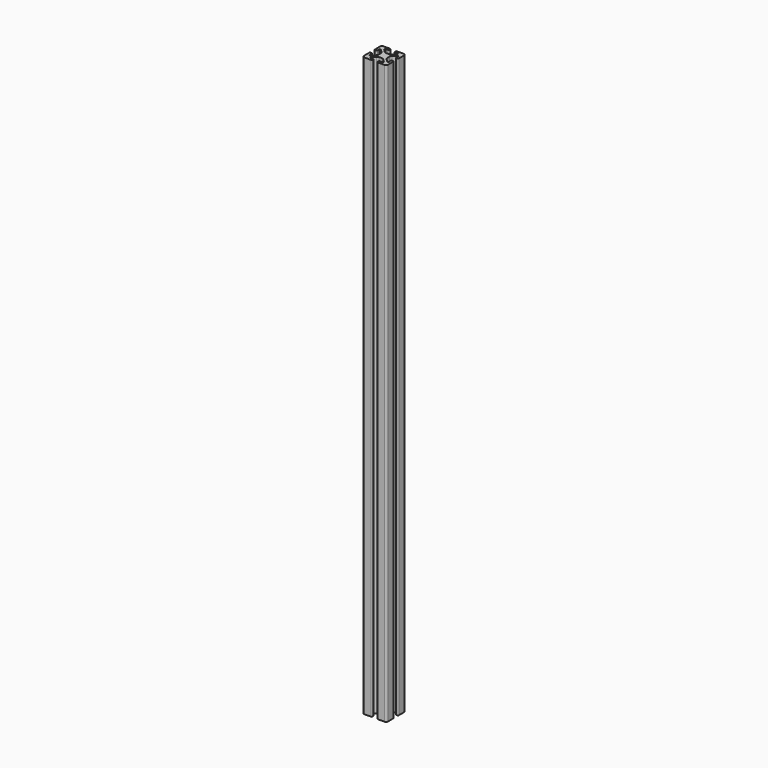
from build123d import *

# Parameters (mm, degrees)
F1_DEPTH = 914.4


with BuildPart() as f1:
    # F0 (on Top) → F1 (new body)
    with BuildSketch(Plane.XY):
        with BuildLine():
            ThreePointArc((0, 34.925), (-2.245064, 33.995064), (-3.175, 31.75))
            Line((-3.175, 31.75), (-3.175, 21.5138))
            ThreePointArc((-3.175, 21.5138), (-2.713752, 20.400248), (-1.6002, 19.939))
            Line((-1.6002, 19.939), (-0.6858, 19.939))
            ThreePointArc((-0.6858, 19.939), (0.427752, 20.400248), (0.889, 21.5138))
            Line((0.889, 21.5138), (0.889, 25.273))
            ThreePointArc((0.889, 25.273), (1.149382, 25.901618), (1.778, 26.162))
            Line((1.778, 26.162), (2.346082, 26.162))
            ThreePointArc((2.346082, 26.162), (2.686288, 26.094329), (2.9747, 25.901618))
            Line((2.9747, 25.901618), (7.61416, 21.262158))
            ThreePointArc((7.61416, 21.262158), (8.643787, 19.721212), (9.005344, 17.903543))
            Line((9.005344, 17.903543), (9.005344, 13.846457))
            ThreePointArc((9.005344, 13.846457), (8.643787, 12.028788), (7.61416, 10.487842))
            Line((7.61416, 10.487842), (2.9747, 5.848382))
            ThreePointArc((2.9747, 5.848382), (2.686288, 5.655671), (2.346082, 5.588))
            Line((2.346082, 5.588), (1.778, 5.588))
            ThreePointArc((1.778, 5.588), (1.149382, 5.848382), (0.889, 6.477))
            Line((0.889, 6.477), (0.889, 10.2362))
            ThreePointArc((0.889, 10.2362), (0.427752, 11.349752), (-0.6858, 11.811))
            Line((-0.6858, 11.811), (-1.6002, 11.811))
            ThreePointArc((-1.6002, 11.811), (-2.713752, 11.349752), (-3.175, 10.2362))
            Line((-3.175, 10.2362), (-3.175, 0))
            ThreePointArc((-3.175, 0), (-2.245064, -2.245064), (0, -3.175))
            Line((0, -3.175), (10.2362, -3.175))
            ThreePointArc((10.2362, -3.175), (11.349752, -2.713752), (11.811, -1.6002))
            Line((11.811, -1.6002), (11.811, -0.6858))
            ThreePointArc((11.811, -0.6858), (11.349752, 0.427752), (10.2362, 0.889))
            Line((10.2362, 0.889), (6.477, 0.889))
            ThreePointArc((6.477, 0.889), (5.848382, 1.149382), (5.588, 1.778))
            Line((5.588, 1.778), (5.588, 2.346082))
            ThreePointArc((5.588, 2.346082), (5.655671, 2.686288), (5.848382, 2.9747))
            Line((5.848382, 2.9747), (10.487842, 7.61416))
            ThreePointArc((10.487842, 7.61416), (12.028788, 8.643787), (13.846457, 9.005344))
            Line((13.846457, 9.005344), (17.903543, 9.005344))
            ThreePointArc((17.903543, 9.005344), (19.721212, 8.643787), (21.262158, 7.61416))
            Line((21.262158, 7.61416), (25.901618, 2.9747))
            ThreePointArc((25.901618, 2.9747), (26.094329, 2.686288), (26.162, 2.346082))
            Line((26.162, 2.346082), (26.162, 1.778))
            ThreePointArc((26.162, 1.778), (25.901618, 1.149382), (25.273, 0.889))
            Line((25.273, 0.889), (21.5138, 0.889))
            ThreePointArc((21.5138, 0.889), (20.400248, 0.427752), (19.939, -0.6858))
            Line((19.939, -0.6858), (19.939, -1.6002))
            ThreePointArc((19.939, -1.6002), (20.400248, -2.713752), (21.5138, -3.175))
            Line((21.5138, -3.175), (31.75, -3.175))
            ThreePointArc((31.75, -3.175), (33.995064, -2.245064), (34.925, 0))
            Line((34.925, 0), (34.925, 10.2362))
            ThreePointArc((34.925, 10.2362), (34.463752, 11.349752), (33.3502, 11.811))
            Line((33.3502, 11.811), (32.4358, 11.811))
            ThreePointArc((32.4358, 11.811), (31.322248, 11.349752), (30.861, 10.2362))
            Line((30.861, 10.2362), (30.861, 6.477))
            ThreePointArc((30.861, 6.477), (30.600618, 5.848382), (29.972, 5.588))
            Line((29.972, 5.588), (29.403918, 5.588))
            ThreePointArc((29.403918, 5.588), (29.063712, 5.655671), (28.7753, 5.848382))
            Line((28.7753, 5.848382), (24.13584, 10.487842))
            ThreePointArc((24.13584, 10.487842), (23.106213, 12.028788), (22.744656, 13.846457))
            Line((22.744656, 13.846457), (22.744656, 17.903543))
            ThreePointArc((22.744656, 17.903543), (23.106213, 19.721212), (24.13584, 21.262158))
            Line((24.13584, 21.262158), (28.7753, 25.901618))
            ThreePointArc((28.7753, 25.901618), (29.063712, 26.094329), (29.403918, 26.162))
            Line((29.403918, 26.162), (29.972, 26.162))
            ThreePointArc((29.972, 26.162), (30.600618, 25.901618), (30.861, 25.273))
            Line((30.861, 25.273), (30.861, 21.5138))
            ThreePointArc((30.861, 21.5138), (31.322248, 20.400248), (32.4358, 19.939))
            Line((32.4358, 19.939), (33.3502, 19.939))
            ThreePointArc((33.3502, 19.939), (34.463752, 20.400248), (34.925, 21.5138))
            Line((34.925, 21.5138), (34.925, 31.75))
            ThreePointArc((34.925, 31.75), (33.995064, 33.995064), (31.75, 34.925))
            Line((31.75, 34.925), (21.5138, 34.925))
            ThreePointArc((21.5138, 34.925), (20.400248, 34.463752), (19.939, 33.3502))
            Line((19.939, 33.3502), (19.939, 32.4358))
            ThreePointArc((19.939, 32.4358), (20.400248, 31.322248), (21.5138, 30.861))
            Line((21.5138, 30.861), (25.273, 30.861))
            ThreePointArc((25.273, 30.861), (25.901618, 30.600618), (26.162, 29.972))
            Line((26.162, 29.972), (26.162, 29.403918))
            ThreePointArc((26.162, 29.403918), (26.094329, 29.063712), (25.901618, 28.7753))
            Line((25.901618, 28.7753), (21.262158, 24.13584))
            ThreePointArc((21.262158, 24.13584), (19.721212, 23.106213), (17.903543, 22.744656))
            Line((17.903543, 22.744656), (13.846457, 22.744656))
            ThreePointArc((13.846457, 22.744656), (12.028788, 23.106213), (10.487842, 24.13584))
            Line((10.487842, 24.13584), (5.848382, 28.7753))
            ThreePointArc((5.848382, 28.7753), (5.655671, 29.063712), (5.588, 29.403918))
            Line((5.588, 29.403918), (5.588, 29.972))
            ThreePointArc((5.588, 29.972), (5.848382, 30.600618), (6.477, 30.861))
            Line((6.477, 30.861), (10.2362, 30.861))
            ThreePointArc((10.2362, 30.861), (11.349752, 31.322248), (11.811, 32.4358))
            Line((11.811, 32.4358), (11.811, 33.3502))
            ThreePointArc((11.811, 33.3502), (11.349752, 34.463752), (10.2362, 34.925))
            Line((10.2362, 34.925), (0, 34.925))
        make_face()
    extrude(amount=-F1_DEPTH)


solid = f1.part
